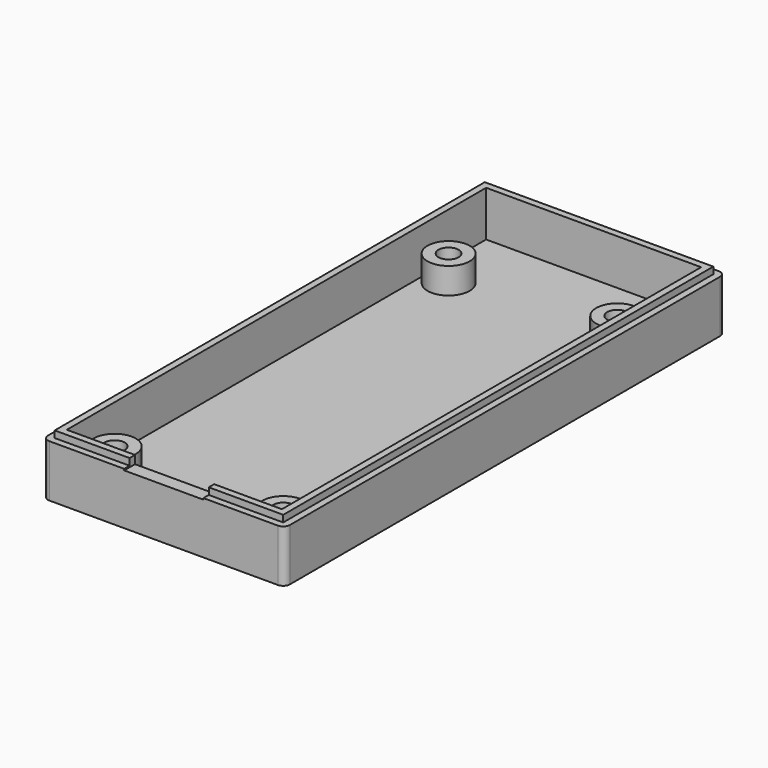
from build123d import *

# Parameters (mm, degrees)
SKETCH_W         = 25.5
SKETCH_H         = 62.15
PAD_DEPTH        = 4.6
THICKNESS_T      = 1.6
SKETCH001_R      = 2.5
PAD001_DEPTH     = 3.09
SKETCH002_R      = 1.6
POCKET_DEPTH     = 3
FILLET_R         = 0.8
SKETCH003_W      = 27.1
SKETCH003_H      = 63.75
SKETCH003_W_2    = 25.5
SKETCH003_H_2    = 62.15
PAD002_DEPTH     = 0.8
SKETCH004_W      = 9.39
SKETCH004_H      = 0.965
POCKET001_DEPTH  = 5
SKETCH005_R      = 2.5
PAD003_DEPTH     = 3.09
HOLE_D           = 2.4
HOLE_DEPTH       = 25
HOLE_CSINK_D     = 4
HOLE_CSINK_ANGLE = 90


with BuildPart() as part:
    # Sketch (on Face4132 of Binder) → Pad (new body)
    with BuildSketch(Plane.XY.offset(1.51)):
        with Locations((12.5, 27.925)):
            Rectangle(SKETCH_W, SKETCH_H)
    extrude(amount=-PAD_DEPTH)

    # Thickness
    thickness_openings = [part.faces().sort_by_distance(p)[0] for p in [
        (12.5, 27.925, 1.51),
    ]]
    offset(amount=THICKNESS_T, openings=thickness_openings, kind=Kind.INTERSECTION)

    # Sketch001 (on Face5 of Thickness) → Pad001 (join)
    with BuildSketch(Plane.XY.offset(-3.09)):
        with Locations((2.5, 0.5)):
            Circle(SKETCH001_R)
        with Locations((22.5, 0.5)):
            Circle(SKETCH001_R)
        with Locations((2.5, 50)):
            Circle(SKETCH001_R)
        with Locations((22.5, 50)):
            Circle(SKETCH001_R)
    extrude(amount=PAD001_DEPTH)

    # Sketch002 (on Face18 of Pad001) → Pocket (cut)
    with BuildSketch(Plane.XY):
        with Locations((2.5, 50)):
            Circle(SKETCH002_R)
        with Locations((22.5, 50)):
            Circle(SKETCH002_R)
        with Locations((2.5, 0.5)):
            Circle(SKETCH002_R)
        with Locations((22.5, 0.5)):
            Circle(SKETCH002_R)
    extrude(amount=-POCKET_DEPTH, mode=Mode.SUBTRACT)

    # Fillet
    fillet_edges = [part.edges().sort_by_distance(p)[0] for p in [
        (-1.85, -4.75, -1.59),
        (26.85, -4.75, -1.59),
        (-1.85, 60.6, -1.59),
        (26.85, 60.6, -1.59),
    ]]
    fillet(fillet_edges, radius=FILLET_R)

    # Sketch003 (on Face1 of Fillet) → Pad002 (join)
    with BuildSketch(Plane.XY.offset(1.51)):
        with Locations((12.5, 27.925)):
            Rectangle(SKETCH003_W, SKETCH003_H)
        with Locations((12.5, 27.925)):
            Rectangle(SKETCH003_W_2, SKETCH003_H_2, mode=Mode.SUBTRACT)
    extrude(amount=PAD002_DEPTH)

    # Sketch004 (on Face17 of Pad002) → Pocket001 (cut)
    with BuildSketch(Plane(origin=(0, -3.15, 0), x_dir=(-1, 0, 0), z_dir=(0, 1, 0))):
        with Locations((-12.525, 1.8275)):
            Rectangle(SKETCH004_W, SKETCH004_H)
    extrude(amount=-POCKET001_DEPTH, mode=Mode.SUBTRACT)

    # Sketch005 (on Face25 of Pocket001) → Pad003 (join)
    with BuildSketch(Plane.XY.offset(-3.09)):
        with Locations((2.5, 50)):
            Circle(SKETCH005_R)
        with Locations((22.5, 50)):
            Circle(SKETCH005_R)
        with Locations((2.5, 0.5)):
            Circle(SKETCH005_R)
        with Locations((22.5, 0.5)):
            Circle(SKETCH005_R)
    extrude(amount=PAD003_DEPTH)

    # Hole
    with Locations(Plane(origin=(0, 0, -4.69), x_dir=(1, 0, 0), z_dir=(0, 0, -1))):
        with Locations((2.5, -0.5), (22.5, -0.5), (2.5, -50), (22.5, -50)):
            CounterSinkHole(HOLE_D / 2, HOLE_CSINK_D / 2, depth=HOLE_DEPTH, counter_sink_angle=HOLE_CSINK_ANGLE)


solid = part.part
